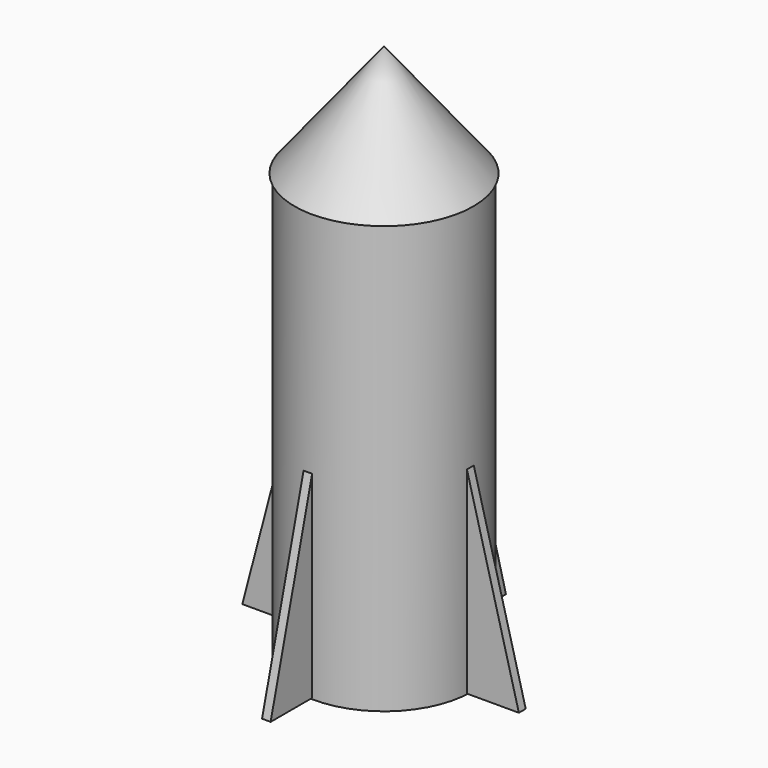
from build123d import *

# Parameters (mm, degrees)
F0_R     = 25.864916
F1_DEPTH = 127
F5_DEPTH = 2.54
F6_COUNT = 4


with BuildPart() as f1:
    # F0 (on Top) → F1 (new body)
    with BuildSketch(Plane.XY):
        Circle(F0_R)
    extrude(amount=-F1_DEPTH)

    # F2 (on Front) → F3 (revolve)
    with BuildSketch(Plane.XZ):
        Polygon((26.535014, 0), (0, 33.204865), (0, 0), align=None)
    revolve(axis=Axis((0, 0, -46.884129), (0, 0, -1)))


with BuildPart() as f5:
    # F4 (on Front) → F5 (new body)
    with BuildSketch(Plane.XZ):
        Polygon((42.022362, -126.134694), (26.626234, -67.612985), (26.626234, -126.134694), align=None)
    extrude(amount=F5_DEPTH)


with BuildPart() as f6_1:
    # F6: instance of F5
    add(f5.part.rotate(Axis((0, 0, 0), (0, 0, 1)), 1 * 360 / F6_COUNT))


with BuildPart() as f6_2:
    # F6: instance of F5
    add(f5.part.rotate(Axis((0, 0, 0), (0, 0, 1)), 2 * 360 / F6_COUNT))


with BuildPart() as f6_3:
    # F6: instance of F5
    add(f5.part.rotate(Axis((0, 0, 0), (0, 0, 1)), 3 * 360 / F6_COUNT))


solid = Compound([f1.part, f5.part, f6_1.part, f6_2.part, f6_3.part])
